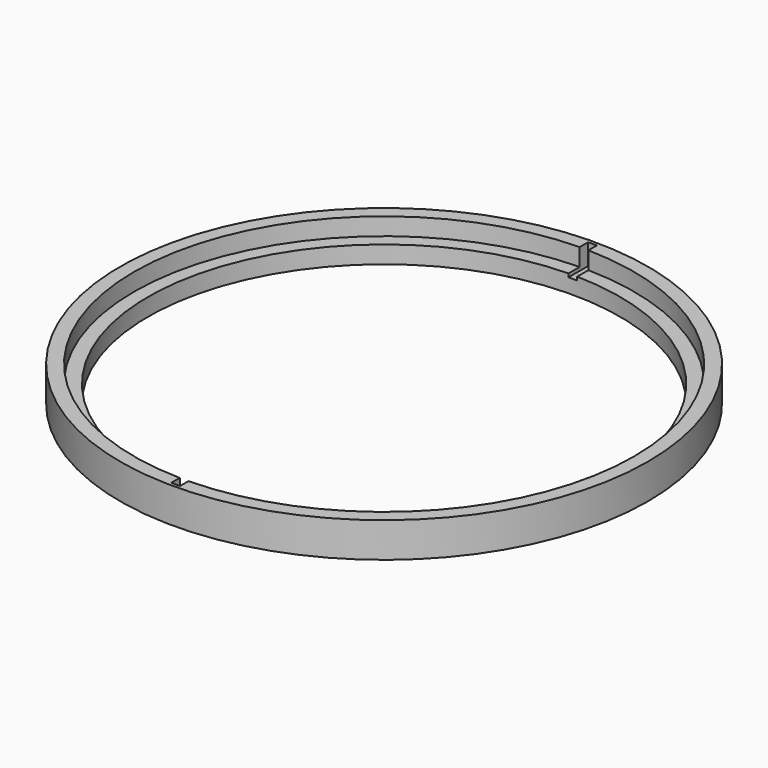
from build123d import *

# Parameters (mm, degrees)
F0_R     = 75.5
F0_R_2   = 67.5
F1_DEPTH = 10
F3_DEPTH = 6
F4_DEPTH = 5


with BuildPart() as f1:
    # F0 (on Top) → F1 (new body)
    with BuildSketch(Plane.XY):
        Circle(F0_R)
        Circle(F0_R_2, mode=Mode.SUBTRACT)
    extrude(amount=F1_DEPTH)

    # F2 (on face) → F3 (cut)
    with BuildSketch(Plane.XY.offset(10)):
        with BuildLine():
            Line((1.25, 71.4890725916), (1.25, 74.5))
            Line((1.25, 74.5), (-1.25, 74.5))
            Line((-1.25, 74.5), (-1.25, 71.4890725916))
            ThreePointArc((-1.25, 71.4890725916), (0, 71.5), (1.25, 71.4890725916))
        make_face()
        with BuildLine():
            Line((1.25, 67.4884249335), (1.25, 71.4890725916))
            ThreePointArc((1.25, 71.4890725916), (0, 71.5), (-1.25, 71.4890725916))
            Line((-1.25, 71.4890725916), (-1.25, 67.4884249335))
            ThreePointArc((-1.25, 67.4884249335), (0, 67.5), (1.25, 67.4884249335))
        make_face()
        with BuildLine():
            Line((-1.25, -67.4884249335), (-1.25, -71.4890725916))
            ThreePointArc((-1.25, -71.4890725916), (0, -71.5), (1.25, -71.4890725916))
            Line((1.25, -71.4890725916), (1.25, -67.4884249335))
            ThreePointArc((1.25, -67.4884249335), (0, -67.5), (-1.25, -67.4884249335))
        make_face()
        with BuildLine():
            ThreePointArc((1.25, -71.4890725916), (0, -71.5), (-1.25, -71.4890725916))
            Line((-1.25, -71.4890725916), (-1.25, -74.5))
            Line((-1.25, -74.5), (1.25, -74.5))
            Line((1.25, -74.5), (1.25, -71.4890725916))
        make_face()
    extrude(amount=-F3_DEPTH, mode=Mode.SUBTRACT)

    # F2 (on face) → F4 (cut)
    with BuildSketch(Plane.XY.offset(10)):
        with BuildLine():
            ThreePointArc((71.5, 0), (50.9981617316, 50.114244482), (1.25, 71.4890725916))
            Line((1.25, 71.4890725916), (1.25, 67.4884249335))
            ThreePointArc((1.25, 67.4884249335), (48.16962217, 47.2857007984), (67.5, 0))
            ThreePointArc((67.5, 0), (48.16962217, -47.2857007984), (1.25, -67.4884249335))
            Line((1.25, -67.4884249335), (1.25, -71.4890725916))
            ThreePointArc((1.25, -71.4890725916), (50.9981617316, -50.114244482), (71.5, 0))
        make_face()
        with BuildLine():
            Line((-1.25, 67.4884249335), (-1.25, 71.4890725916))
            ThreePointArc((-1.25, 71.4890725916), (-71.5, 0), (-1.25, -71.4890725916))
            Line((-1.25, -71.4890725916), (-1.25, -67.4884249335))
            ThreePointArc((-1.25, -67.4884249335), (-67.5, 0), (-1.25, 67.4884249335))
        make_face()
    extrude(amount=-F4_DEPTH, mode=Mode.SUBTRACT)


solid = f1.part
